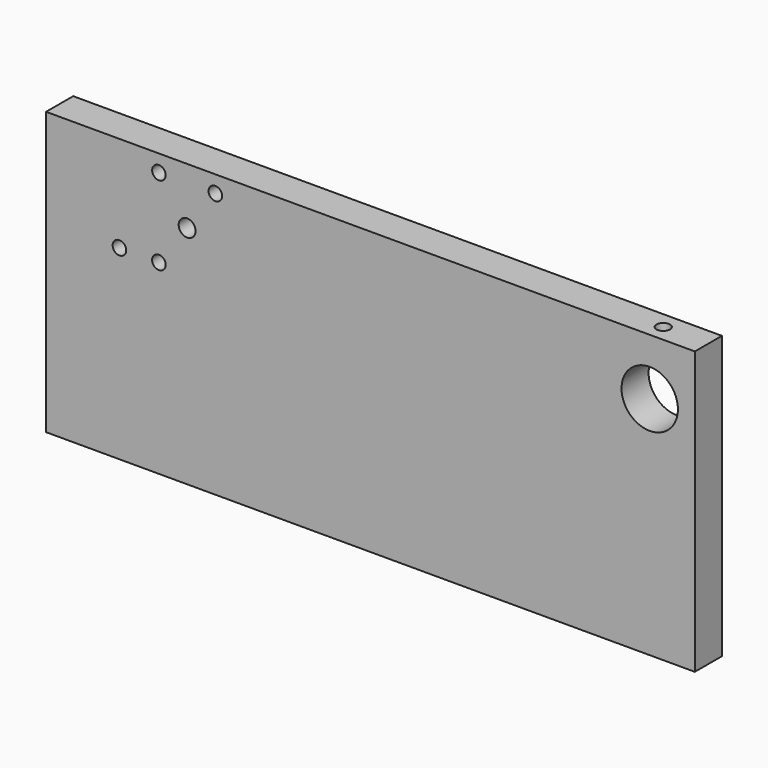
from build123d import *

# Parameters (mm, degrees)
F0_W          = 115
F0_H          = 50
F1_DEPTH      = 3
F1_DEPTH_BACK = 3
F2_R          = 5
F2_R_2        = 1.2
F2_R_3        = 1.5
F3_DEPTH      = 6.001
F4_R          = 1.2
F5_DEPTH      = 5.1471356602
F6_R          = 1.2
F7_DEPTH      = 10


with BuildPart() as f1:
    # F0 (on Front) → F1 (new body, two sides)
    with BuildSketch(Plane.XZ) as f1_sk:
        Rectangle(F0_W, F0_H)
    extrude(amount=F1_DEPTH)
    extrude(f1_sk.sketch, amount=-F1_DEPTH_BACK)

    # F2 (on face) → F3 (cut, through all)
    with BuildSketch(Plane.XZ.offset(3)):
        with Locations((49.5, 15)):
            Circle(F2_R)
        with Locations((-37.5, 22)):
            Circle(F2_R_2)
        with Locations((-27.5, 22)):
            Circle(F2_R_2)
        with Locations((-32.5, 15)):
            Circle(F2_R_3)
        with Locations((-37.5, 8)):
            Circle(F2_R_2)
        with Locations((-44.5, 8)):
            Circle(F2_R_2)
    extrude(amount=-F3_DEPTH, mode=Mode.SUBTRACT)

    # F4 (on face) → F5 (cut, through all)
    with BuildSketch(Plane.XY.offset(25)):
        with Locations((49.5, 0)):
            Circle(F4_R)
    extrude(amount=-F5_DEPTH, mode=Mode.SUBTRACT)

    # F6 (on face) → F7 (cut)
    with BuildSketch(Plane(origin=(0, 0, -25), x_dir=(1, 0, 0), z_dir=(0, 0, -1))):
        with Locations((-40, 0)):
            Circle(F6_R)
        with Locations((40, 0)):
            Circle(F6_R)
    extrude(amount=-F7_DEPTH, mode=Mode.SUBTRACT)


solid = f1.part
